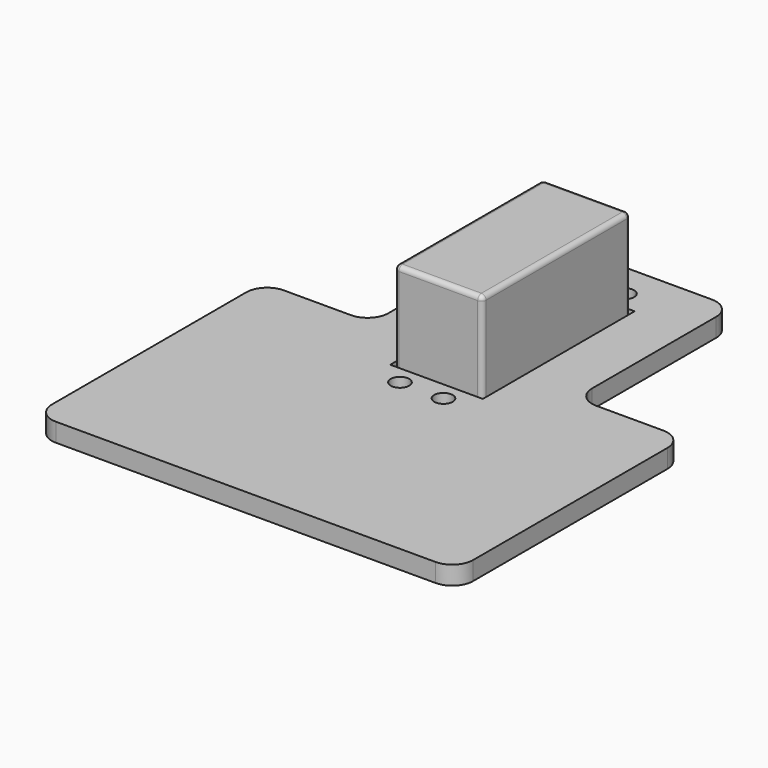
from build123d import *

# Parameters (mm, degrees)
F0_R     = 2
F0_W     = 20
F0_H     = 41
F1_DEPTH = 4
F2_W     = 19
F2_H     = 40
F3_DEPTH = 23
F4_R     = 1


with BuildPart() as f1:
    # F0 (on Top) → F1 (new body)
    with BuildSketch(Plane.XY):
        with BuildLine():
            Line((-41, -30.75), (41, -30.75))
            ThreePointArc((41, -30.75), (44.181981, -29.431981), (45.5, -26.25))
            Line((45.5, -26.25), (45.5, 26.25))
            ThreePointArc((45.5, 26.25), (44.181981, 29.431981), (41, 30.75))
            Line((41, 30.75), (26.5, 30.75))
            ThreePointArc((26.5, 30.75), (23.318019, 32.068019), (22, 35.25))
            Line((22, 35.25), (22, 68.75))
            ThreePointArc((22, 68.75), (20.681981, 71.931981), (17.5, 73.25))
            Line((17.5, 73.25), (-17.5, 73.25))
            ThreePointArc((-17.5, 73.25), (-20.681981, 71.931981), (-22, 68.75))
            Line((-22, 68.75), (-22, 35.25))
            ThreePointArc((-22, 35.25), (-23.318019, 32.068019), (-26.5, 30.75))
            Line((-26.5, 30.75), (-41, 30.75))
            ThreePointArc((-41, 30.75), (-44.181981, 29.431981), (-45.5, 26.25))
            Line((-45.5, 26.25), (-45.5, -26.25))
            ThreePointArc((-45.5, -26.25), (-44.181981, -29.431981), (-41, -30.75))
        make_face()
        with Locations((-4.7, 16.75)):
            Circle(F0_R, mode=Mode.SUBTRACT)
        with Locations((4.7, 16.75)):
            Circle(F0_R, mode=Mode.SUBTRACT)
        with Locations((-4.7, 65.75)):
            Circle(F0_R, mode=Mode.SUBTRACT)
        with Locations((0, 41.25)):
            Rectangle(F0_W, F0_H, mode=Mode.SUBTRACT)
        with Locations((4.7, 65.75)):
            Circle(F0_R, mode=Mode.SUBTRACT)
    extrude(amount=F1_DEPTH)


with BuildPart() as f3:
    # F2 (on Top) → F3 (new body)
    with BuildSketch(Plane.XY):
        with Locations((0, 41.25)):
            Rectangle(F2_W, F2_H)
    extrude(amount=F3_DEPTH)

    # F4
    f4_edges = [f3.edges().sort_by_distance(p)[0] for p in [
        (9.5, 41.25, 23),
        (0, 61.25, 23),
        (-9.5, 41.25, 23),
        (0, 21.25, 23),
        (-9.5, 21.25, 11.5),
        (9.5, 21.25, 11.5),
        (0, 21.25, 0),
        (9.5, 61.25, 11.5),
        (9.5, 41.25, 0),
        (-9.5, 61.25, 11.5),
        (0, 61.25, 0),
        (-9.5, 41.25, 0),
    ]]
    fillet(f4_edges, radius=F4_R)


solid = Compound([f1.part, f3.part])
